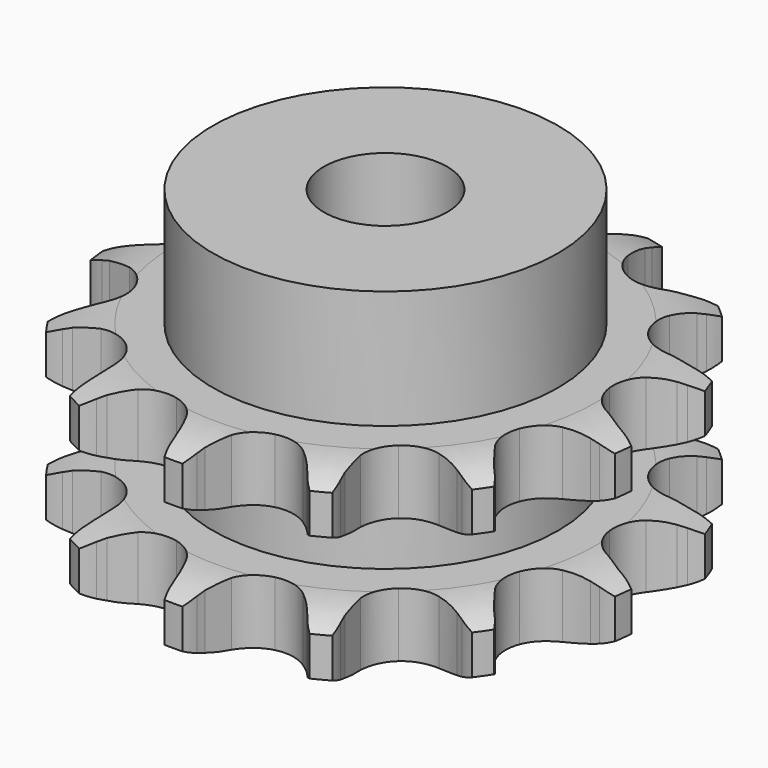
from build123d import *

# Parameters (mm, degrees)
PAD_DEPTH         = 15.4
SKETCH001_R       = 14
PAD001_DEPTH      = 25
SKETCH002_R       = 5
POCKET_DEPTH      = 0.001
POCKET_DEPTH_BACK = 25.001


with BuildPart() as part:
    # Sprocket → Pad (new body)
    with BuildSketch(Plane.XY):
        with BuildLine():
            ThreePointArc((-5.427337, 22.019571), (-4.523347, 21.152768), (-3.847053, 20.098647))
            Line((-3.847053, 20.098647), (-3.559603, 19.507274))
            ThreePointArc((-3.559603, 19.507274), (-3.073325, 18.64237), (-2.487415, 17.8416))
            ThreePointArc((-2.487415, 17.8416), (-1.374438, 16.978646), (0, 16.671519))
            ThreePointArc((0, 16.671519), (1.374438, 16.978646), (2.487415, 17.8416))
            ThreePointArc((2.487415, 17.8416), (3.073325, 18.64237), (3.559603, 19.507274))
            Line((3.559603, 19.507274), (3.847053, 20.098647))
            ThreePointArc((3.847053, 20.098647), (4.523347, 21.152768), (5.427337, 22.019571))
            ThreePointArc((5.427337, 22.019571), (5.824957, 20.83195), (5.933911, 19.584282))
            Line((5.933911, 19.584282), (5.91361, 18.927063))
            ThreePointArc((5.91361, 18.927063), (5.942247, 17.935245), (6.088908, 16.953912))
            ThreePointArc((6.088908, 16.953912), (6.673365, 15.672578), (7.747641, 14.761897))
            ThreePointArc((7.747641, 14.761897), (9.107375, 14.395111), (10.493902, 14.641993))
            Line((10.493902, 14.641993), (12.217354, 15.618603))
            ThreePointArc((12.217354, 15.618603), (12.478169, 15.818866), (12.746703, 16.008653))
            ThreePointArc((12.746703, 16.008653), (13.835406, 16.627742), (15.038673, 16.975153))
            ThreePointArc((15.038673, 16.975153), (14.838833, 15.738783), (14.355487, 14.583395))
            Line((14.355487, 14.583395), (14.032087, 14.01089))
            ThreePointArc((14.032087, 14.01089), (13.596522, 13.119371), (13.270336, 12.182287))
            ThreePointArc((13.270336, 12.182287), (13.192382, 10.776111), (13.720391, 9.470502))
            ThreePointArc((13.720391, 9.470502), (14.753922, 8.513829), (16.096362, 8.088081))
            Line((16.096362, 8.088081), (18.076257, 8.151899))
            ThreePointArc((18.076257, 8.151899), (18.400263, 8.208017), (18.726237, 8.25127))
            ThreePointArc((18.726237, 8.25127), (19.977941, 8.2935), (21.204831, 8.041932))
            ThreePointArc((21.204831, 8.041932), (20.453311, 7.040051), (19.488394, 6.241627))
            Line((19.488394, 6.241627), (18.935981, 5.884992))
            ThreePointArc((18.935981, 5.884992), (18.135998, 5.298007), (17.41169, 4.619846))
            ThreePointArc((17.41169, 4.619846), (16.689182, 3.410967), (16.549965, 2.00953))
            ThreePointArc((16.549965, 2.00953), (17.020523, 0.682132), (18.01134, -0.318712))
            Line((18.01134, -0.318712), (19.794106, -1.182308))
            ThreePointArc((19.794106, -1.182308), (20.10708, -1.283191), (20.415816, -1.396379))
            ThreePointArc((20.415816, -1.396379), (21.54377, -1.940682), (22.513217, -2.733599))
            ThreePointArc((22.513217, -2.733599), (21.382183, -3.271472), (20.156745, -3.530022))
            Line((20.156745, -3.530022), (19.50187, -3.589088))
            ThreePointArc((19.50187, -3.589088), (18.520735, -3.737066), (17.564236, -4.000945))
            ThreePointArc((17.564236, -4.000945), (16.362692, -4.735589), (15.588141, -5.911802))
            ThreePointArc((15.588141, -5.911802), (15.387927, -7.305833), (15.800136, -8.652492))
            Line((15.800136, -8.652492), (16.977365, -10.245661))
            ThreePointArc((16.977365, -10.245661), (17.207606, -10.480435), (17.428377, -10.724135))
            ThreePointArc((17.428377, -10.724135), (18.174181, -11.730278), (18.664097, -12.882896))
            ThreePointArc((18.664097, -12.882896), (17.412654, -12.833541), (16.207428, -12.492985))
            Line((16.207428, -12.492985), (15.600116, -12.240951))
            ThreePointArc((15.600116, -12.240951), (14.662595, -11.916023), (13.693026, -11.705168))
            ThreePointArc((13.693026, -11.705168), (12.287707, -11.797278), (11.055262, -12.478811))
            ThreePointArc((11.055262, -12.478811), (10.230143, -13.62012), (9.969312, -15.004091))
            Line((9.969312, -15.004091), (10.271314, -16.961857))
            ThreePointArc((10.271314, -16.961857), (10.366078, -17.276738), (10.448308, -17.595121))
            ThreePointArc((10.448308, -17.595121), (10.641106, -18.832608), (10.539257, -20.080876))
            ThreePointArc((10.539257, -20.080876), (9.454095, -19.455599), (8.545185, -18.593956))
            Line((8.545185, -18.593956), (8.124564, -18.088559))
            ThreePointArc((8.124564, -18.088559), (7.445431, -17.365162), (6.68491, -16.727878))
            ThreePointArc((6.68491, -16.727878), (5.397756, -16.156353), (3.989756, -16.187075))
            ThreePointArc((3.989756, -16.187075), (2.728756, -16.814202), (1.854639, -17.918433))
            Line((1.854639, -17.918433), (1.212229, -19.792297))
            ThreePointArc((1.212229, -19.792297), (1.149805, -20.115148), (1.074657, -20.435276))
            ThreePointArc((1.074657, -20.435276), (0.670282, -21.620615), (0, -22.678569))
            ThreePointArc((0, -22.678569), (-0.670282, -21.620615), (-1.074657, -20.435276))
            Line((-1.074657, -20.435276), (-1.212229, -19.792297))
            ThreePointArc((-1.212229, -19.792297), (-1.477391, -18.836152), (-1.854639, -17.918433))
            ThreePointArc((-1.854639, -17.918433), (-2.728756, -16.814202), (-3.989756, -16.187075))
            ThreePointArc((-3.989756, -16.187075), (-5.397756, -16.156353), (-6.68491, -16.727878))
            Line((-6.68491, -16.727878), (-8.124564, -18.088559))
            ThreePointArc((-8.124564, -18.088559), (-8.329873, -18.34542), (-8.545185, -18.593956))
            ThreePointArc((-8.545185, -18.593956), (-9.454095, -19.455599), (-10.539257, -20.080876))
            ThreePointArc((-10.539257, -20.080876), (-10.641106, -18.832608), (-10.448308, -17.595121))
            Line((-10.448308, -17.595121), (-10.271314, -16.961857))
            ThreePointArc((-10.271314, -16.961857), (-10.061761, -15.992006), (-9.969312, -15.004091))
            ThreePointArc((-9.969312, -15.004091), (-10.230143, -13.62012), (-11.055262, -12.478811))
            ThreePointArc((-11.055262, -12.478811), (-12.287707, -11.797278), (-13.693026, -11.705168))
            Line((-13.693026, -11.705168), (-15.600116, -12.240951))
            ThreePointArc((-15.600116, -12.240951), (-15.901278, -12.372978), (-16.207428, -12.492985))
            ThreePointArc((-16.207428, -12.492985), (-17.412654, -12.833541), (-18.664097, -12.882896))
            ThreePointArc((-18.664097, -12.882896), (-18.174181, -11.730278), (-17.428377, -10.724135))
            Line((-17.428377, -10.724135), (-16.977365, -10.245661))
            ThreePointArc((-16.977365, -10.245661), (-16.341103, -9.484285), (-15.800136, -8.652492))
            ThreePointArc((-15.800136, -8.652492), (-15.387927, -7.305833), (-15.588141, -5.911802))
            ThreePointArc((-15.588141, -5.911802), (-16.362692, -4.735589), (-17.564236, -4.000945))
            Line((-17.564236, -4.000945), (-19.50187, -3.589088))
            ThreePointArc((-19.50187, -3.589088), (-19.829892, -3.566035), (-20.156745, -3.530022))
            ThreePointArc((-20.156745, -3.530022), (-21.382183, -3.271472), (-22.513217, -2.733599))
            ThreePointArc((-22.513217, -2.733599), (-21.54377, -1.940682), (-20.415816, -1.396379))
            Line((-20.415816, -1.396379), (-19.794106, -1.182308))
            ThreePointArc((-19.794106, -1.182308), (-18.876895, -0.803828), (-18.01134, -0.318712))
            ThreePointArc((-18.01134, -0.318712), (-17.020523, 0.682132), (-16.549965, 2.00953))
            ThreePointArc((-16.549965, 2.00953), (-16.689182, 3.410967), (-17.41169, 4.619846))
            Line((-17.41169, 4.619846), (-18.935981, 5.884992))
            ThreePointArc((-18.935981, 5.884992), (-19.215717, 6.057843), (-19.488394, 6.241627))
            ThreePointArc((-19.488394, 6.241627), (-20.453311, 7.040051), (-21.204831, 8.041932))
            ThreePointArc((-21.204831, 8.041932), (-19.977941, 8.2935), (-18.726237, 8.25127))
            Line((-18.726237, 8.25127), (-18.076257, 8.151899))
            ThreePointArc((-18.076257, 8.151899), (-17.088218, 8.060776), (-16.096362, 8.088081))
            ThreePointArc((-16.096362, 8.088081), (-14.753922, 8.513829), (-13.720391, 9.470502))
            ThreePointArc((-13.720391, 9.470502), (-13.192382, 10.776111), (-13.270336, 12.182287))
            Line((-13.270336, 12.182287), (-14.032087, 14.01089))
            ThreePointArc((-14.032087, 14.01089), (-14.199452, 14.293942), (-14.355487, 14.583395))
            ThreePointArc((-14.355487, 14.583395), (-14.838833, 15.738783), (-15.038673, 16.975153))
            ThreePointArc((-15.038673, 16.975153), (-13.835406, 16.627742), (-12.746703, 16.008653))
            Line((-12.746703, 16.008653), (-12.217354, 15.618603))
            ThreePointArc((-12.217354, 15.618603), (-11.384836, 15.078754), (-10.493902, 14.641993))
            ThreePointArc((-10.493902, 14.641993), (-9.107375, 14.395111), (-7.747641, 14.761897))
            ThreePointArc((-7.747641, 14.761897), (-6.673365, 15.672578), (-6.088908, 16.953912))
            Line((-6.088908, 16.953912), (-5.91361, 18.927063))
            ThreePointArc((-5.91361, 18.927063), (-5.930264, 19.255472), (-5.933911, 19.584282))
            ThreePointArc((-5.933911, 19.584282), (-5.824957, 20.83195), (-5.427337, 22.019571))
        make_face()
    extrude(amount=PAD_DEPTH)

    # Sketch → Groove (revolve, cut)
    with BuildSketch(Plane.XZ):
        with BuildLine():
            ThreePointArc((17.141101, 0), (19.377169, 0.253206), (21.5, 1))
            Line((21.5, 1), (21.5, 4.2))
            ThreePointArc((21.5, 4.2), (19.377169, 4.946794), (17.141101, 5.2))
            Line((14, 5.2), (17.141101, 5.2))
            Line((14, 10.2), (14, 5.2))
            Line((17.141101, 10.2), (14, 10.2))
            ThreePointArc((17.141101, 10.2), (19.377169, 10.453206), (21.5, 11.2))
            Line((21.5, 11.2), (21.5, 14.4))
            ThreePointArc((21.5, 14.4), (19.377169, 15.146794), (17.141101, 15.4))
            Line((17.141101, 15.4), (27.141101, 15.4))
            Line((27.141101, 15.4), (27.141101, 0))
            Line((17.141101, 0), (27.141101, 0))
        make_face()
    revolve(axis=Axis((0, 0, 0), (0, 0, 1)), mode=Mode.SUBTRACT)

    # Sketch001 → Pad001 (join)
    with BuildSketch(Plane.XY):
        Circle(SKETCH001_R)
    extrude(amount=PAD001_DEPTH)

    # Sketch002 → Pocket (cut, two sides)
    with BuildSketch(Plane.XY) as pocket_sk:
        Circle(SKETCH002_R)
    extrude(amount=-POCKET_DEPTH, mode=Mode.SUBTRACT)
    extrude(pocket_sk.sketch, amount=POCKET_DEPTH_BACK, mode=Mode.SUBTRACT)


solid = part.part
